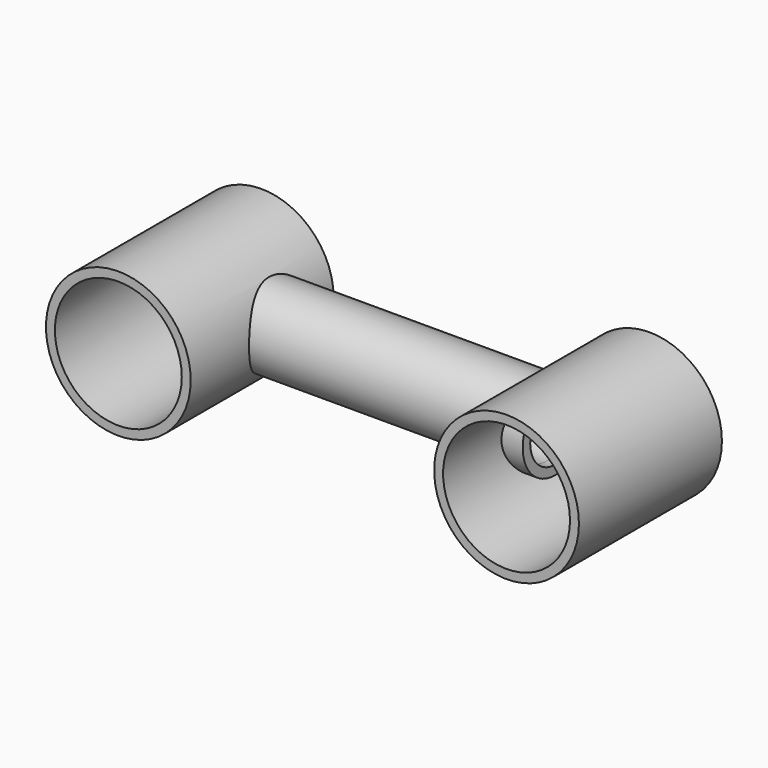
from build123d import *

# Parameters (mm, degrees)
F0_R          = 20.5728082759
F1_DEPTH      = 50.8
F2_T          = -2.54
F2_2_T        = -2.54
F3_R          = 11.571366929
F4_DEPTH      = 50.8
F4_DEPTH_BACK = 50.8
F5_DEPTH      = 43.18
F5_DEPTH_BACK = 43.18
F6_T          = -2.54
F7_D          = 17.8308
F9_DEPTH      = 12.7


with BuildPart() as f1:
    # F0 (on Front) → F1 (new body)
    with BuildSketch(Plane.XZ):
        with Locations((-55.168800056, 0)):
            Circle(F0_R)
    extrude(amount=-F1_DEPTH)

    # F2
    f2_openings = [f1.faces().sort_by_distance(p)[0] for p in [
        (-55.1688, 0, 0),
    ]]
    offset(amount=F2_T, openings=f2_openings)


with BuildPart() as f1b:
    # F0 (on Front) → F1, piece 2 (new body)
    with BuildSketch(Plane.XZ):
        with Locations((55.168800056, 0)):
            Circle(F0_R)
    extrude(amount=-F1_DEPTH)

    # F2#2
    f2_2_openings = [f1b.faces().sort_by_distance(p)[0] for p in [
        (55.1688, 0, 0),
    ]]
    offset(amount=F2_2_T, openings=f2_2_openings)


with BuildPart() as f4_tool:
    # F3 (on Right) → F4 (new body, two sides)
    with BuildSketch(Plane.YZ) as f4_sk:
        with Locations((32.3087982833, 0)):
            Circle(F3_R)
    extrude(amount=F4_DEPTH)
    extrude(f4_sk.sketch, amount=-F4_DEPTH_BACK)


with BuildPart() as f1_1:
    add(f1.part)

    # F4: cut by f4_tool
    add(f4_tool.part, mode=Mode.SUBTRACT)


with BuildPart() as f1b_1:
    add(f1b.part)

    # F4: cut by f4_tool
    add(f4_tool.part, mode=Mode.SUBTRACT)


with BuildPart() as f5:
    # F3 (on Right) → F5 (new body, two sides)
    with BuildSketch(Plane.YZ) as f5_sk:
        with Locations((32.3087982833, 0)):
            Circle(F3_R)
    extrude(amount=F5_DEPTH)
    extrude(f5_sk.sketch, amount=-F5_DEPTH_BACK)

    # F6
    f6_openings = [f5.faces().sort_by_distance(p)[0] for p in [
        (-43.18, 32.308798, 0),
    ]]
    offset(amount=F6_T, openings=f6_openings)

    # F7 (through all)
    with Locations(Plane(origin=(0, 0, 0), x_dir=(0, 1, 0), z_dir=(-1, 0, 0))):
        with Locations((32.3087982833, 0)):
            Hole(F7_D / 2)

    # F8 (on Top) → F9 (cut)
    with BuildSketch(Plane.XY):
        Polygon((-29.3624736369, 29.1084013879), (0, 29.1084013879), (29.3624736369, 29.1084013879), (29.3624736369, 36.728400737), (0, 36.728400737), (-29.3624736369, 36.728400737), align=None)
    extrude(amount=-F9_DEPTH, mode=Mode.SUBTRACT)


solid = Compound([f1_1.part, f1b_1.part, f5.part])
